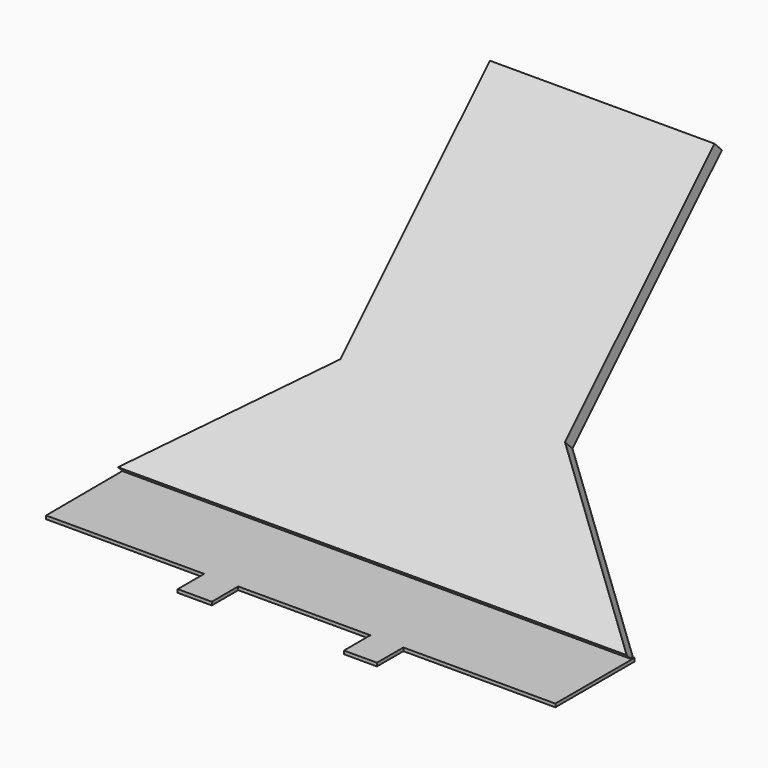
from build123d import *

# Parameters (mm, degrees)
F3_DEPTH = 2
F4_DEPTH = 0.5


with BuildPart() as f3:
    # F2 (on face) → F3 (new body)
    with BuildSketch(Plane(origin=(0, 0, 0), x_dir=(1, 0, 0), z_dir=(0, -0.7071067812, 0.7071067812))):
        Polygon((-14.9508744776, 21.5), (-36.4508744776, 0), (40.5491255224, 0), (19.0491255224, 21.5), (19.0491255224, 61.5), (-14.9508744776, 61.5), align=None)
    extrude(amount=F3_DEPTH)

    # F0 (on Top) → F4 (join)
    with BuildSketch(Plane.XY):
        Polygon((40.6194950176, 0), (-36.539348602, 0), (-36.4647228283, -14.9998143653), (-12.5346706987, -14.9998143653), (-12.5346706987, -20), (-7.3805049824, -20), (-7.3805049824, -14.9998143653), (12.6194950176, -14.9998143653), (12.6194950176, -20), (17.6194950176, -20), (17.6194950176, -15), (40.6194950176, -15), align=None)
    extrude(amount=F4_DEPTH)


solid = f3.part
